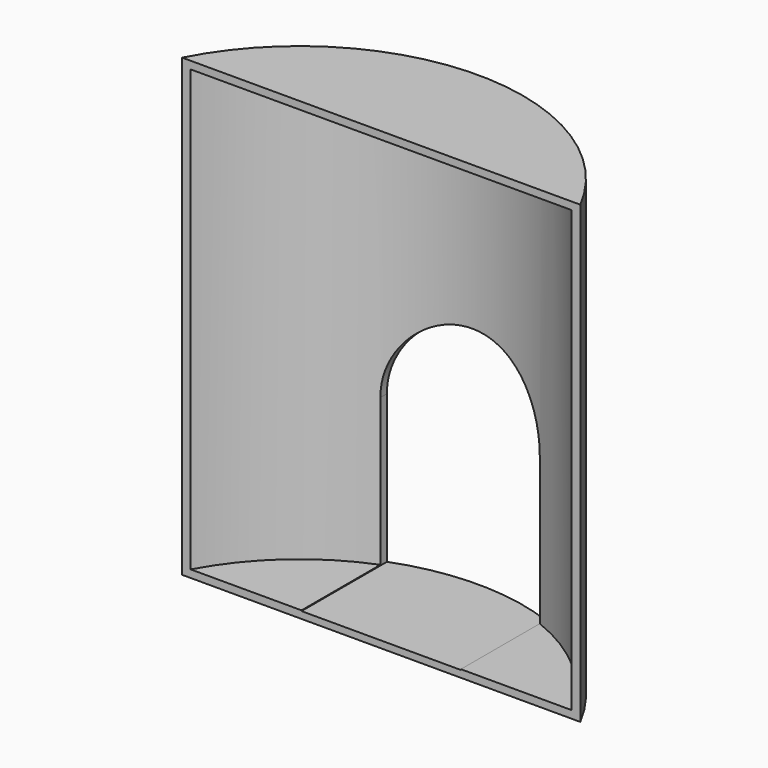
from build123d import *

# Parameters (mm, degrees)
PAD_DEPTH    = 120
PAD001_DEPTH = 2
PAD002_DEPTH = 2
POCKET_DEPTH = 59.001


with BuildPart() as part:
    # Sketch → Pad (new body)
    with BuildSketch(Plane.XY):
        with BuildLine():
            ThreePointArc((52.459508, 27), (0, 59), (-52.459508, 27))
            Line((-52.459508, 27), (-50.199602, 27))
            ThreePointArc((50.199602, 27), (0, 57), (-50.199602, 27))
            Line((50.199602, 27), (52.459508, 27))
        make_face()
    extrude(amount=PAD_DEPTH)

    # Sketch001 → Pad001 (join)
    with BuildSketch(Plane.XY):
        with BuildLine():
            ThreePointArc((50.199602, 27), (0, 57), (-50.199602, 27))
            Line((-50.199602, 27), (50.199602, 27))
        make_face()
    extrude(amount=PAD001_DEPTH)

    # Sketch002 → Pad002 (join)
    with BuildSketch(Plane.XY.offset(118)):
        with BuildLine():
            ThreePointArc((50.199602, 27), (0, 57), (-50.199602, 27))
            Line((-50.199602, 27), (50.199602, 27))
        make_face()
    extrude(amount=PAD002_DEPTH)

    # Sketch003 → Pocket (cut, through all)
    with BuildSketch(Plane.XZ):
        with BuildLine():
            Line((-20.999165, 1.820858), (20.999236, 1.820858))
            Line((20.999236, 1.820858), (20.999236, 40.820858))
            ThreePointArc((20.999236, 40.820858), (-0.004079, 62), (-20.999165, 40.8127))
            Line((-20.999165, 1.820858), (-20.999165, 40.8127))
        make_face()
    extrude(amount=-POCKET_DEPTH, mode=Mode.SUBTRACT)


solid = part.part
